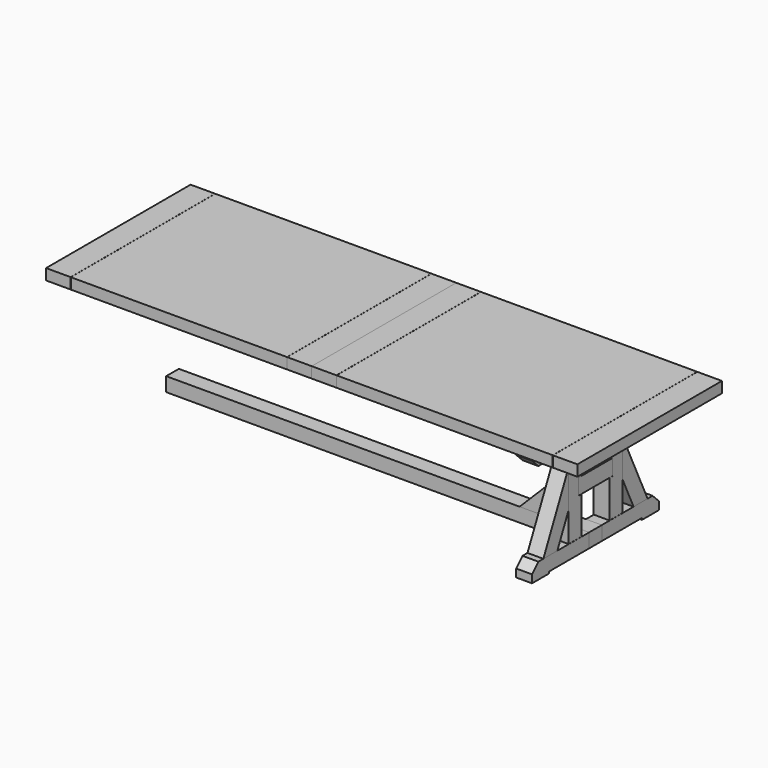
from build123d import *

# Parameters (mm, degrees)
F0_W      = 140
F0_H      = 1025
F4_DEPTH  = 62
F5_W      = 1227
F5_H      = 1025
F6_DEPTH  = 62
F7_W      = 139.5
F7_H      = 1025
F8_DEPTH  = 62
F12_W     = 900
F12_H     = 90
F13_DEPTH = 90
F14_SIZE2 = 45
F14_SIZE  = 45
F15_W     = 91
F15_H     = 40
F16_DEPTH = 90
F18_DEPTH = 90
F19_SIZE2 = 45
F19_SIZE  = 45
F21_DEPTH = 90
F23_W     = 239
F23_H     = 90
F24_DEPTH = 90
F26_DEPTH = 90
F28_W     = 90
F28_H     = 80
F29_DEPTH = 2400
F31_DEPTH = 45


with BuildPart() as f4:
    # F0 (on Top) → F4 (new body)
    with BuildSketch(Plane.XY):
        with Locations((70, 0)):
            Rectangle(F0_W, F0_H)
    extrude(amount=-F4_DEPTH)


with BuildPart() as f6:
    # F5 (on Top) → F6 (new body, through all)
    with BuildSketch(Plane.XY):
        with Locations((754, 0)):
            Rectangle(F5_W, F5_H)
    extrude(amount=-F6_DEPTH)


with BuildPart() as f8:
    # F7 (on Top) → F8 (new body, through all)
    with BuildSketch(Plane.XY):
        with Locations((1437.75, 0)):
            Rectangle(F7_W, F7_H)
    extrude(amount=-F8_DEPTH)


with BuildPart() as f9_1:
    # F9: instance of F4
    add(f4.part.mirror(Plane.YZ))


with BuildPart() as f10_1:
    # F10: instance of F6
    add(f6.part.mirror(Plane.YZ))


with BuildPart() as f11_1:
    # F11: instance of F8
    add(f8.part.mirror(Plane.YZ))


with BuildPart() as f13:
    # F12 (on offset) → F13 (new body)
    with BuildSketch(Plane.YZ.offset(1200)):
        with Locations((0, -107.5)):
            Rectangle(F12_W, F12_H)
    extrude(amount=-F13_DEPTH)

    # F14
    f14_edges = [f13.edges().sort_by_distance(p)[0] for p in [
        (1155, -450, -152.5),
        (1155, 450, -152.5),
    ]]
    chamfer(f14_edges, length=F14_SIZE, length2=F14_SIZE2)

    # F15 (on face) → F16 (cut, through all)
    with BuildSketch(Plane.YZ.offset(1200)):
        with Locations((-295.5, -82.5)):
            Rectangle(F15_W, F15_H)
        with Locations((295.5, -82.5)):
            Rectangle(F15_W, F15_H)
    extrude(amount=-F16_DEPTH, mode=Mode.SUBTRACT)


with BuildPart() as f18:
    # F17 (on offset) → F18 (new body)
    with BuildSketch(Plane.YZ.offset(1200)):
        Polygon((450, -630), (0, -630), (-450, -630), (-450, -720), (-330, -720), (-330, -710), (0, -710), (330, -710), (330, -720), (450, -720), align=None)
    extrude(amount=-F18_DEPTH)

    # F19
    f19_edges = [f18.edges().sort_by_distance(p)[0] for p in [
        (1155, -450, -630),
        (1155, 450, -630),
    ]]
    chamfer(f19_edges, length=F19_SIZE, length2=F19_SIZE2)


with BuildPart() as f21:
    # F20 (on offset) → F21 (new body)
    with BuildSketch(Plane.YZ.offset(1200)):
        Polygon((-100, -153), (-190, -153), (-190, -629.5), (-100, -629.5), (-100, -416.5), (-120, -416.5), (-120, -325.5), (-100, -325.5), align=None)
    extrude(amount=-F21_DEPTH)


with BuildPart() as f22_1:
    # F22: instance of F21
    add(f21.part.mirror(Plane.XZ))


with BuildPart() as f24:
    # F23 (on offset) → F24 (new body)
    with BuildSketch(Plane.YZ.offset(1200)):
        with Locations((0, -371)):
            Rectangle(F23_W, F23_H)
    extrude(amount=-F24_DEPTH)


with BuildPart() as f26:
    # F25 (on offset) → F26 (new body)
    with BuildSketch(Plane.YZ.offset(1200)):
        Polygon((-190, -457.777333), (-190, -244.819191), (-369.612761, -630), (-270.308749, -630), align=None)
    extrude(amount=-F26_DEPTH)


with BuildPart() as f27_1:
    # F27: instance of F26
    add(f26.part.mirror(Plane.XZ))


with BuildPart() as f29:
    # F28 (on offset) → F29 (new body, through all)
    with BuildSketch(Plane.YZ.offset(1200)):
        with Locations((0, -670)):
            Rectangle(F28_W, F28_H)
    extrude(amount=-F29_DEPTH)


with BuildPart() as f31:
    # F30 (on Front) → F31 (new body, symmetric)
    with BuildSketch(Plane.XZ):
        Polygon((1110, -416.5), (1110, -325.5), (805.5, -630), (932.779221, -630), (1146.279221, -416.5), align=None)
    extrude(amount=F31_DEPTH, both=True)


solid = Compound([f4.part, f6.part, f8.part, f9_1.part, f10_1.part, f11_1.part, f13.part, f18.part, f21.part, f22_1.part, f24.part, f26.part, f27_1.part, f29.part, f31.part])
